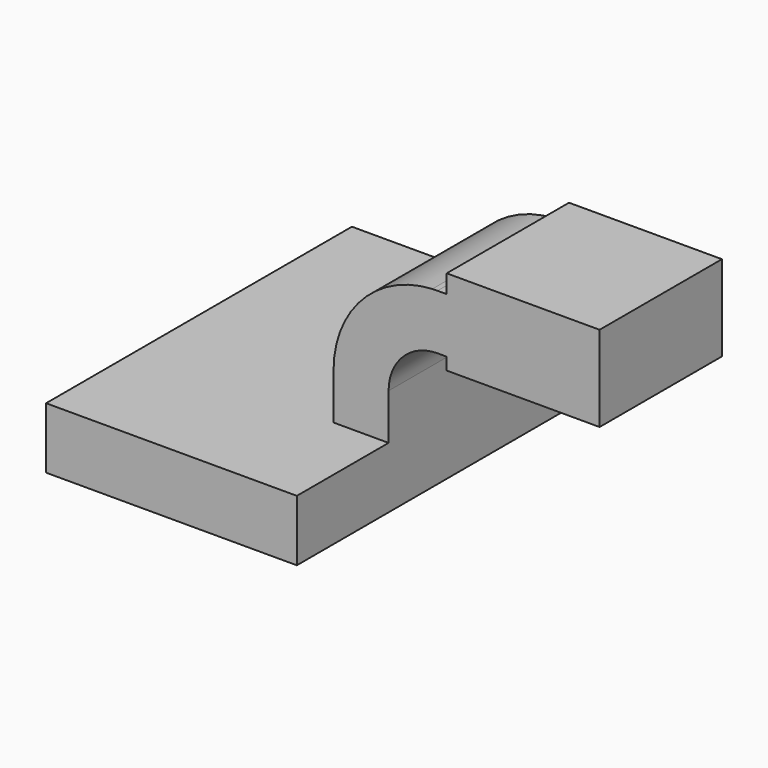
from build123d import *

# Parameters (mm, degrees)
F1_DEPTH = 62.5
F0_W     = 21.2285545291
F0_H     = 18
F2_DEPTH = 25


with BuildPart() as f1:
    # F0 (on Front) → F1 (new body, symmetric)
    with BuildSketch(Plane.XZ):
        Polygon((-41, 10), (-41, -10), (41, -10), (41, 10), (23, 10), align=None)
    extrude(amount=F1_DEPTH, both=True)

    # F0 (on Front) → F2 (join, symmetric)
    with BuildSketch(Plane.XZ):
        with BuildLine():
            Line((23, 10), (41, 10))
            Line((41, 10), (41, 25))
            ThreePointArc((41, 25), (45.686291501, 36.313708499), (57, 41))
            Line((57, 41), (60, 41))
            Line((60, 41), (60, 59))
            Line((60, 59), (57, 59))
            add(Edge.make_bspline(
                [(55.3022101566, 58.9575839784), (55.8715194046, 58.9754471326), (56.4375192282, 58.9895954178), (57, 59)],
                knots=[108.0329717794, 108.0329717794, 108.0329717794, 108.0329717794, 109.5673308975, 109.5673308975, 109.5673308975, 109.5673308975], degree=3))
            ThreePointArc((55.3022101566, 58.9575839784), (32.3654221198, 48.4336845729), (23, 25))
            Line((23, 25), (23, 10))
        make_face()
        with Locations((70.6142772645, 50)):
            Rectangle(F0_W, F0_H)
        Polygon((60, 65), (60, 59), (81.2285545291, 59), (81.2285545291, 41), (60, 41), (60, 37), (110, 37), (110, 65), align=None)
    extrude(amount=F2_DEPTH, both=True)


solid = f1.part
